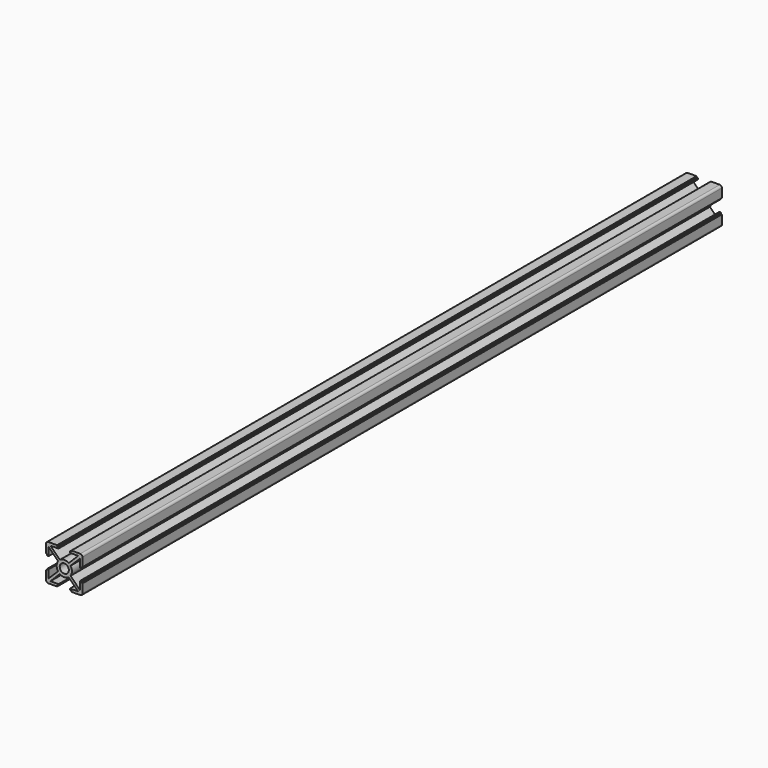
from build123d import *

# Parameters (mm, degrees)
F0_R     = 2.5
F1_DEPTH = 439


with BuildPart() as f1:
    # F0 (on Front) → F1 (new body)
    with BuildSketch(Plane.XZ):
        with BuildLine():
            Line((-50.15593, 47.812752), (-44.979215, 42.636037))
            ThreePointArc((-44.979215, 42.636037), (-45.75593, 40.202701), (-44.979215, 37.769366))
            Line((-44.979215, 37.769366), (-50.15593, 32.592651))
            Line((-50.15593, 32.592651), (-50.15593, 37.002701))
            Line((-50.15593, 37.002701), (-50.949922, 37.002701))
            Line((-50.949922, 37.002701), (-50.949922, 36.252701))
            Line((-50.949922, 36.252701), (-51.55593, 36.252701))
            Line((-51.55593, 36.252701), (-51.55593, 31.402701))
            ThreePointArc((-51.55593, 31.402701), (-51.204458, 30.554173), (-50.35593, 30.202701))
            Line((-50.35593, 30.202701), (-45.50593, 30.202701))
            Line((-45.50593, 30.202701), (-45.50593, 30.808709))
            Line((-45.50593, 30.808709), (-44.75593, 30.808709))
            Line((-44.75593, 30.808709), (-44.75593, 31.602701))
            Line((-44.75593, 31.602701), (-49.16598, 31.602701))
            Line((-49.16598, 31.602701), (-43.989265, 36.779416))
            ThreePointArc((-43.989265, 36.779416), (-41.55593, 36.002701), (-39.122595, 36.779416))
            Line((-39.122595, 36.779416), (-33.945879, 31.602701))
            Line((-33.945879, 31.602701), (-38.35593, 31.602701))
            Line((-38.35593, 31.602701), (-38.35593, 30.808709))
            Line((-38.35593, 30.808709), (-37.60593, 30.808709))
            Line((-37.60593, 30.808709), (-37.60593, 30.202701))
            Line((-37.60593, 30.202701), (-32.75593, 30.202701))
            ThreePointArc((-32.75593, 30.202701), (-31.907402, 30.554173), (-31.55593, 31.402701))
            Line((-31.55593, 31.402701), (-31.55593, 36.252701))
            Line((-31.55593, 36.252701), (-32.161938, 36.252701))
            Line((-32.161938, 36.252701), (-32.161938, 37.002701))
            Line((-32.161938, 37.002701), (-32.95593, 37.002701))
            Line((-32.95593, 37.002701), (-32.95593, 32.592651))
            Line((-32.95593, 32.592651), (-38.132645, 37.769366))
            ThreePointArc((-38.132645, 37.769366), (-37.35593, 40.202701), (-38.132645, 42.636037))
            Line((-38.132645, 42.636037), (-32.95593, 47.812752))
            Line((-32.95593, 47.812752), (-32.95593, 43.402701))
            Line((-32.95593, 43.402701), (-32.161938, 43.402701))
            Line((-32.161938, 43.402701), (-32.161938, 44.152701))
            Line((-32.161938, 44.152701), (-31.55593, 44.152701))
            Line((-31.55593, 44.152701), (-31.55593, 49.002701))
            ThreePointArc((-31.55593, 49.002701), (-31.907402, 49.851229), (-32.75593, 50.202701))
            Line((-32.75593, 50.202701), (-37.60593, 50.202701))
            Line((-37.60593, 50.202701), (-37.60593, 49.596693))
            Line((-37.60593, 49.596693), (-38.35593, 49.596693))
            Line((-38.35593, 49.596693), (-38.35593, 48.802701))
            Line((-38.35593, 48.802701), (-33.945879, 48.802701))
            Line((-33.945879, 48.802701), (-39.122595, 43.625986))
            ThreePointArc((-39.122595, 43.625986), (-41.55593, 44.402701), (-43.989265, 43.625986))
            Line((-43.989265, 43.625986), (-49.16598, 48.802701))
            Line((-49.16598, 48.802701), (-44.75593, 48.802701))
            Line((-44.75593, 48.802701), (-44.75593, 49.596693))
            Line((-44.75593, 49.596693), (-45.50593, 49.596693))
            Line((-45.50593, 49.596693), (-45.50593, 50.202701))
            Line((-45.50593, 50.202701), (-50.35593, 50.202701))
            ThreePointArc((-50.35593, 50.202701), (-51.204458, 49.851229), (-51.55593, 49.002701))
            Line((-51.55593, 49.002701), (-51.55593, 44.152701))
            Line((-51.55593, 44.152701), (-50.949922, 44.152701))
            Line((-50.949922, 44.152701), (-50.949922, 43.402701))
            Line((-50.949922, 43.402701), (-50.15593, 43.402701))
            Line((-50.15593, 43.402701), (-50.15593, 47.812752))
        make_face()
        with Locations((-41.55593, 40.202701)):
            Circle(F0_R, mode=Mode.SUBTRACT)
    extrude(amount=-F1_DEPTH)


solid = f1.part
